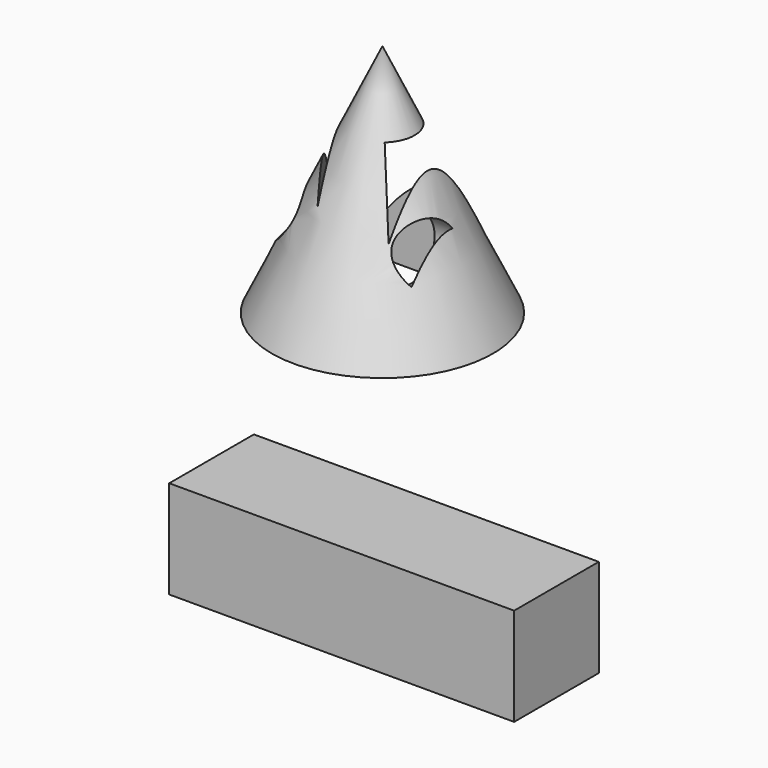
from build123d import *

# Parameters (mm, degrees)
F2_W     = 82.828117
F2_H     = 23.525143
F3_DEPTH = 25.4
F4_R     = 7.211407
F5_DEPTH = 24.13
F7_DEPTH = 40


with BuildPart() as f1:
    # F0 (on Front) → F1 (revolve)
    with BuildSketch(Plane.XZ):
        Polygon((8.209297, 6.003813), (8.209297, 62.366143), (-18.372567, 6.003813), align=None)
    revolve(axis=Axis((8.209297, 0, 34.184978), (0, 0, -1)))

    # F4 (on Right) → F5 (cut, symmetric)
    with BuildSketch(Plane.YZ):
        with Locations((-5.023599, 24.87294)):
            Circle(F4_R)
    extrude(amount=F5_DEPTH, both=True, mode=Mode.SUBTRACT)

    # F6 (on face) → F7 (cut)
    with BuildSketch(Plane(origin=(0, 0, 6.003813), x_dir=(1, 0, 0), z_dir=(0, 0, -1))):
        Polygon((-7.964242, -17.27628), (0, -17.27628), (18.991655, -17.27628), (18.991655, 11.629508), (-3.553277, -11.8851), (3.308224, 13.355422), (-10.169725, -7.719188), align=None)
    extrude(amount=-F7_DEPTH, mode=Mode.SUBTRACT)


with BuildPart() as f3:
    # F2 (on Front) → F3 (new body)
    with BuildSketch(Plane.XZ):
        with Locations((18.7466, -41.536583)):
            Rectangle(F2_W, F2_H)
    extrude(amount=F3_DEPTH)


solid = Compound([f1.part, f3.part])
